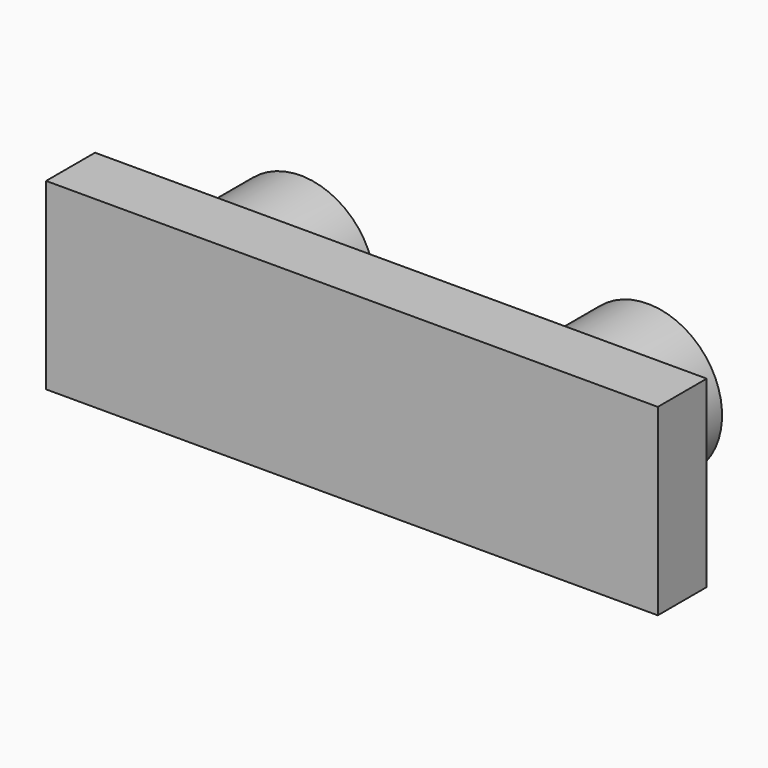
from build123d import *

# Parameters (mm, degrees)
F1_DEPTH = 2.54
F2_R     = 3.080736
F2_R_2   = 1.935305
F3_DEPTH = 3.81


with BuildPart() as f1:
    # F0 (on Front) → F1 (new body)
    with BuildSketch(Plane.XZ):
        Polygon((12.7, -10.405478), (12.7, -2.785478), (-12.7, -2.785478), (-12.7, -10.405478), (0, -10.405478), align=None)
    extrude(amount=F1_DEPTH)

    # F2 (on face) → F3 (join)
    with BuildSketch(Plane(origin=(0, 0, 0), x_dir=(-1, 0, 0), z_dir=(0, 1, 0))):
        with Locations((-7.207552, -6.461604)):
            Circle(F2_R)
        with Locations((-7.207552, -6.461604)):
            Circle(F2_R_2, mode=Mode.SUBTRACT)
        with Locations((7.207552, -6.461604)):
            Circle(F2_R)
        with Locations((7.207552, -6.461604)):
            Circle(F2_R_2, mode=Mode.SUBTRACT)
    extrude(amount=F3_DEPTH)


solid = f1.part
